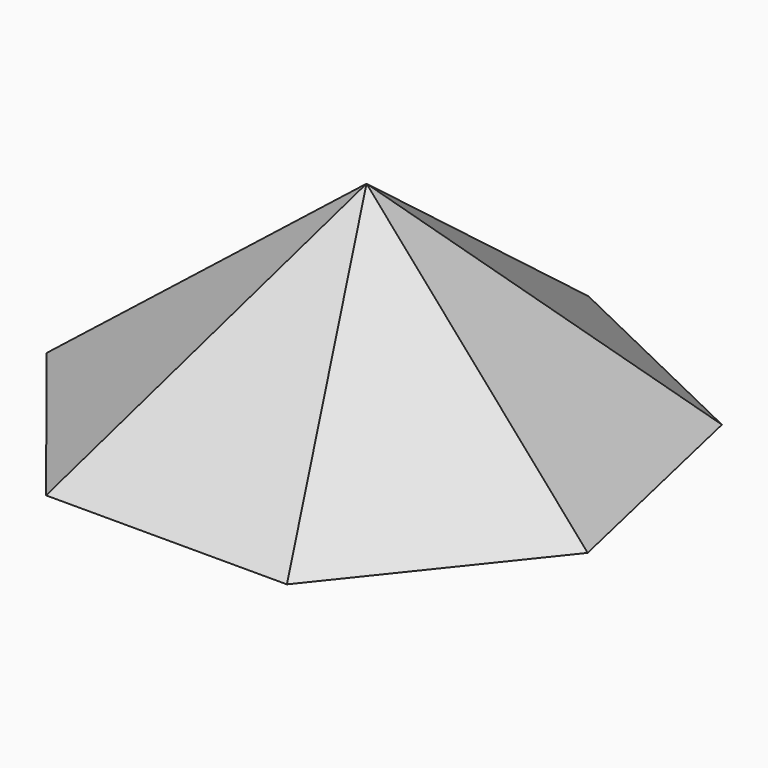
from build123d import *


with BuildPart() as f3:
    # F0 (on Top) → F3 section 0
    with BuildSketch(Plane.XY, mode=Mode.PRIVATE) as f3_s0:
        Polygon((-56.804541, -117.955845), (56.804541, -117.955845), (127.638645, -29.132688), (102.358246, 81.627977), (0, 130.921111), (-102.358246, 81.627977), (-127.638645, -29.132688), align=None)
    loft([f3_s0.sketch, Vertex(0, 0, 100)])


solid = f3.part
